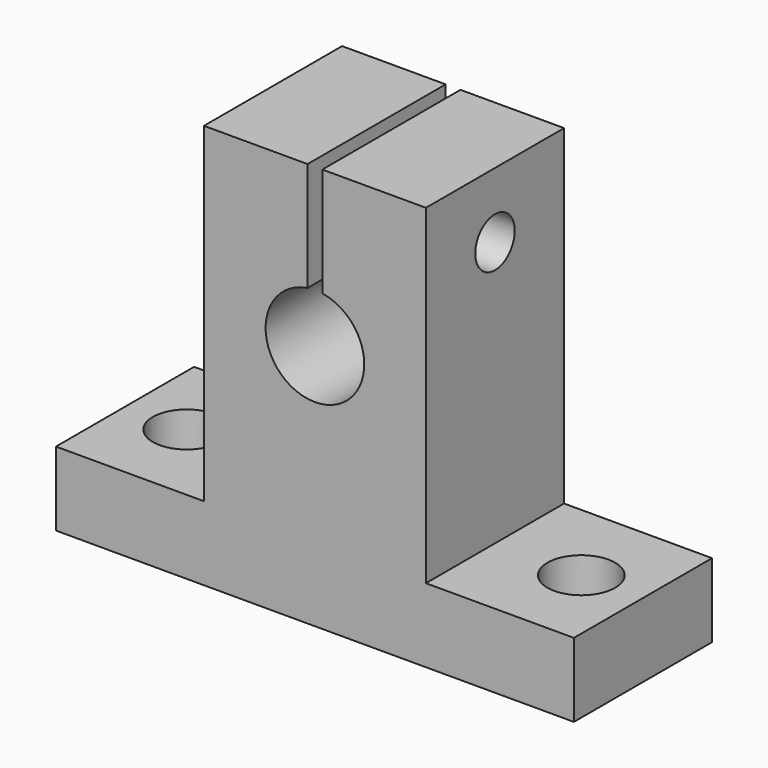
from build123d import *

# Parameters (mm, degrees)
OBJ1_R                     = 2.75
OBJ1_DEPTH                 = 8
OBJ2                     = 2.75
OBJ3                 = 8
OBJ4_PLACEMENT_ANGLE        = 90
TBOLT_SHAFT_R                    = 2
TBOLT_SHAFT_DEPTH                = 20
TBOLT_SHAFT_ROLL_ANGLE           = 90
UP_SEP_W                         = 16
UP_SEP_H                         = 1.2
UP_SEP_DEPTH                     = 13.8
SHAFT_HOLE_R                     = 4
SHAFT_HOLE_DEPTH                 = 16
SHAFT_HOLE_PITCH_ANGLE           = 90
TBOLT_HEAD_R                     = 3.85
TBOLT_HEAD_DEPTH                 = 5.4
TBOLT_HEAD_ROLL_ANGLE            = 90
SIDE_BOX_L_W                     = 14
SIDE_BOX_L_H                     = 12
SIDE_BOX_L_DEPTH                 = 26.8
SIDE_BOX_R_W                     = 14
SIDE_BOX_R_H                     = 12
SIDE_BOX_R_DEPTH                 = 26.8
TOTAL_BOX_W                      = 14
TOTAL_BOX_H                      = 42
TOTAL_BOX_DEPTH                  = 32.8
SK_SHAPE_W_HOLES_PLACEMENT_ANGLE = 90


with BuildPart() as obj1:
    # obj1 → obj1 (new body)
    with BuildSketch(Plane(origin=(7, -16, -1), x_dir=(1, 0, 0), z_dir=(0, 0, 1))):
        Circle(OBJ1_R)
    extrude(amount=OBJ1_DEPTH)


with BuildPart() as obj4:
    with BuildSketch(Plane(origin=(7, 16, -1), x_dir=(1, 0, 0), z_dir=(0, 0, 1))):
        Circle(OBJ2)
    extrude(amount=OBJ3)

    # obj4: union obj1
    add(obj1.part)


with BuildPart() as obj4_1:
    # obj4 placement: moved
    add(obj4.part.moved(Location((0, -7, 0))).rotate(Axis((0, -7, 0), (0, 0, 1)), OBJ4_PLACEMENT_ANGLE))


with BuildPart() as tbolt_shaft:
    # tbolt_shaft → tbolt_shaft (new body)
    with BuildSketch(Plane.XY):
        Circle(TBOLT_SHAFT_R)
    extrude(amount=TBOLT_SHAFT_DEPTH)


with BuildPart() as tbolt_shaft_1:
    # tbolt_shaft roll: moved
    add(tbolt_shaft.part.rotate(Axis((0, 0, 0), (1, 0, 0)), TBOLT_SHAFT_ROLL_ANGLE))


with BuildPart() as tbolt_shaft_2:
    # tbolt_shaft placement: moved
    add(tbolt_shaft_1.part.moved(Location((7, 10, 27.5))))


with BuildPart() as up_sep:
    # up_sep → up_sep (new body)
    with BuildSketch(Plane(origin=(-1, -0.6, 21), x_dir=(1, 0, 0), z_dir=(0, 0, 1))):
        with Locations((8, 0.6)):
            Rectangle(UP_SEP_W, UP_SEP_H)
    extrude(amount=UP_SEP_DEPTH)


with BuildPart() as shaft_hole:
    # shaft_hole → shaft_hole (new body)
    with BuildSketch(Plane.XY):
        Circle(SHAFT_HOLE_R)
    extrude(amount=SHAFT_HOLE_DEPTH)


with BuildPart() as shaft_hole_1:
    # shaft_hole pitch: moved
    add(shaft_hole.part.rotate(Axis((0, 0, 0), (0, 1, 0)), SHAFT_HOLE_PITCH_ANGLE))


with BuildPart() as shaft_hole_2:
    # shaft_hole placement: moved
    add(shaft_hole_1.part.moved(Location((-1, 0, 20))))


with BuildPart() as fuse_shaft_holes:
    # tbolt_head → tbolt_head (new body)
    with BuildSketch(Plane.XY):
        Circle(TBOLT_HEAD_R)
    extrude(amount=TBOLT_HEAD_DEPTH)


with BuildPart() as fuse_shaft_holes_1:
    # tbolt_head roll: moved
    add(fuse_shaft_holes.part.rotate(Axis((0, 0, 0), (1, 0, 0)), TBOLT_HEAD_ROLL_ANGLE))


with BuildPart() as fuse_shaft_holes_2:
    # tbolt_head placement: moved
    add(fuse_shaft_holes_1.part.moved(Location((7, 10, 27.5))))

    # fuse_shaft_holes: union tbolt_shaft, up_sep, shaft_hole
    add(tbolt_shaft_2.part)
    add(up_sep.part)
    add(shaft_hole_2.part)


with BuildPart() as side_box_l:
    # side_box_l → side_box_l (new body)
    with BuildSketch(Plane(origin=(0, -21, 6), x_dir=(1, 0, 0), z_dir=(0, 0, 1))):
        with Locations((7, 6)):
            Rectangle(SIDE_BOX_L_W, SIDE_BOX_L_H)
    extrude(amount=SIDE_BOX_L_DEPTH)


with BuildPart() as side_boxes:
    # side_box_r → side_box_r (new body)
    with BuildSketch(Plane(origin=(0, 9, 6), x_dir=(1, 0, 0), z_dir=(0, 0, 1))):
        with Locations((7, 6)):
            Rectangle(SIDE_BOX_R_W, SIDE_BOX_R_H)
    extrude(amount=SIDE_BOX_R_DEPTH)

    # side_boxes: union side_box_l
    add(side_box_l.part)


with BuildPart() as obj5:
    # total_box → total_box (new body)
    with BuildSketch(Plane(origin=(0, -21, 0), x_dir=(1, 0, 0), z_dir=(0, 0, 1))):
        with Locations((7, 21)):
            Rectangle(TOTAL_BOX_W, TOTAL_BOX_H)
    extrude(amount=TOTAL_BOX_DEPTH)

    # sk_shape: cut side_boxes
    add(side_boxes.part, mode=Mode.SUBTRACT)

    # sk_shape_w_holes: cut fuse_shaft_holes
    add(fuse_shaft_holes_2.part, mode=Mode.SUBTRACT)


with BuildPart() as obj5_1:
    # sk_shape_w_holes placement: moved
    add(obj5.part.moved(Location((0, -7, 0))).rotate(Axis((0, -7, 0), (0, 0, 1)), SK_SHAPE_W_HOLES_PLACEMENT_ANGLE))

    # sky_x_y0: cut obj4
    add(obj4_1.part, mode=Mode.SUBTRACT)


with BuildPart() as obj5_2:
    # sky_x_y0 placement: moved
    add(obj5_1.part.moved(Location((85.25, -56.5, -20))))


with BuildPart() as obj5_3:
    # Clone013 placement: moved
    add(obj5_2.part.moved(Location((-170.5, 0, 0))))


solid = obj5_3.part
